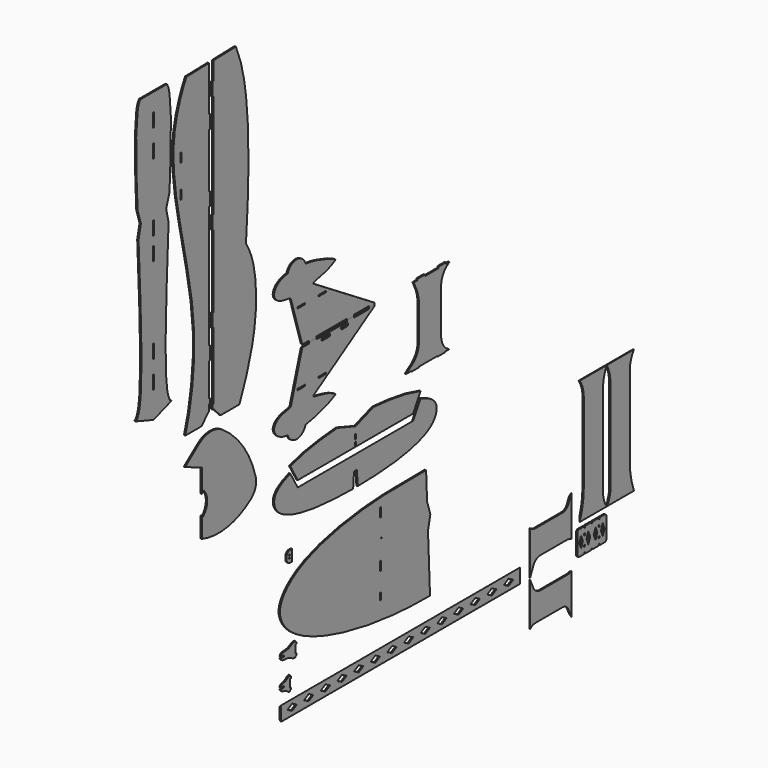
from build123d import *

# Parameters (mm, degrees)
F0_W      = 3
F0_H      = 15
F0_H_2    = 20
F0_R      = 1
F1_DEPTH  = 3
F0_W_2    = 20
F0_H_3    = 3
F0_W_3    = 660
F0_H_4    = 32
F0_H_5    = 4
F0_R_2    = 1.5
F4_DEPTH  = 3.0010001
F7_R      = 2
F8_R      = 5
F11_DEPTH = 3.0010001
F14_DEPTH = 1370.5460520562
F17_DEPTH = 3.0010001
F20_DEPTH = 159.5
F23_DEPTH = 75
F28_DEPTH = 2
F31_DEPTH = 2
F34_DEPTH = 660


with BuildPart() as f1:
    # F0 (on Right) → F1 (new body)
    with BuildSketch(Plane.YZ):
        with BuildLine():
            Line((445.9788260149, -85.3884914776), (443.2548856503, -23))
            add(Edge.make_bspline(
                [(443.2548856503, -23), (387.6442757386, -23.1080248271), (277.4693973876, -21.577900026), (113.2925464778, -53.4159812978), (48.9382679894, -100.0666005831), (33.4355530446, -139.8630615338), (64.1850761776, -192.401883947), (190.107286282, -248.8820027973), (348.3490708917, -272.3398208274), (454.1161131043, -271.7630071739)],
                knots=[0, 0, 0, 0, 0.1728091954, 0.3435828975, 0.4572655529, 0.5359553333, 0.6299355939, 0.7797664277, 1, 1, 1, 1], degree=3))
            Line((454.1161131043, -271.7630071739), (448.5068115819, -143.2888802136))
            Line((448.5068115819, -143.2888802136), (455, -114))
            Line((455, -114), (445.9788260149, -85.3884914776))
        make_face()
        with Locations((317.5, -217.5)):
            Rectangle(F0_W, F0_H, mode=Mode.SUBTRACT)
        with Locations((317.5, -158)):
            Rectangle(F0_W, F0_H_2, mode=Mode.SUBTRACT)
        with Locations((320, -104.5)):
            Circle(F0_R, mode=Mode.SUBTRACT)
        with Locations((317.5, -54)):
            Rectangle(F0_W, F0_H_2, mode=Mode.SUBTRACT)
    extrude(amount=F1_DEPTH)


with BuildPart() as f1b:
    # F0 (on Right) → F1, piece 2 (new body)
    with BuildSketch(Plane.YZ):
        with BuildLine():
            add(Edge.make_bspline(
                [(-356.5451143497, 868.4), (-358.3322230935, 919.2899078593), (-358.3894427132, 960.5220665782), (-353.6212927068, 1004.6125197381), (-349.4813869749, 1014.2803602541), (-347.1118856844, 1019.0654496894), (-346.1484470427, 1019.3939888095), (-345.3, 1019.4)],
                knots=[0, 0, 0, 0, 0.4421689869, 0.709813539, 0.8489281379, 0.9420742738, 1, 1, 1, 1], degree=3))
            Line((-356.5451143497, 868.4), (-353.8211739851, 806.0115085224))
            Line((-353.8211739851, 806.0115085224), (-344.8, 777.4))
            Line((-344.8, 777.4), (-351.2931884181, 748.1111197864))
            Line((-351.2931884181, 748.1111197864), (-345.6838868957, 619.6369928261))
            add(Edge.make_bspline(
                [(-345.6838868957, 619.6369928261), (-343.4550093203, 555.8012843453), (-342.6428432821, 543.1426851677), (-343.2666166718, 433.3879178692), (-352.3876367856, 404.7503224717), (-355.9228914137, 399.2288437019), (-359.9124845068, 398.1551121862)],
                knots=[0, 0, 0, 0, 0.3519730084, 0.698776995, 0.8921059042, 1, 1, 1, 1], degree=3))
            Line((-359.9124845068, 398.1551121862), (-309.8, 380.9))
            Line((-309.8, 380.9), (-309.8, 439.4))
            Line((-309.8, 439.4), (-311.3, 439.4))
            Line((-311.3, 439.4), (-311.3, 469.4))
            Line((-311.3, 469.4), (-309.8, 469.4))
            Line((-309.8, 469.4), (-309.8, 499.4))
            Line((-309.8, 499.4), (-311.3, 499.4))
            Line((-311.3, 499.4), (-311.3, 529.4))
            Line((-311.3, 529.4), (-309.8, 529.4))
            Line((-309.8, 529.4), (-309.8, 689.4))
            Line((-309.8, 689.4), (-311.3, 689.4))
            Line((-311.3, 689.4), (-311.3, 719.4))
            Line((-311.3, 719.4), (-309.8, 719.4))
            Line((-309.8, 719.4), (-309.8, 739.4))
            Line((-309.8, 739.4), (-311.3, 739.4))
            Line((-311.3, 739.4), (-311.3, 769.4))
            Line((-311.3, 769.4), (-309.8, 769.4))
            Line((-309.8, 769.4), (-309.8, 889.4))
            Line((-309.8, 889.4), (-311.3, 889.4))
            Line((-311.3, 889.4), (-311.3, 919.4))
            Line((-311.3, 919.4), (-309.8, 919.4))
            Line((-309.8, 919.4), (-309.8, 949.4))
            Line((-309.8, 949.4), (-311.3, 949.4))
            Line((-311.3, 949.4), (-311.3, 979.4))
            Line((-311.3, 979.4), (-309.8, 979.4))
            Line((-309.8, 979.4), (-309.8, 1019.4))
            Line((-309.8, 1019.4), (-345.3, 1019.4))
        make_face()
    extrude(amount=F1_DEPTH)

    # F2: F1b across face


with BuildPart() as f1c:
    # F0 (on Right) → F1, piece 3 (new body)
    with BuildSketch(Plane.YZ):
        with BuildLine():
            Line((-82.2212458515, 1014.8229707951), (-144.2, 1013.2))
            Line((-144.2, 1013.2), (-144.2, 973.2))
            Line((-144.2, 973.2), (-147.2, 973.2))
            Line((-147.2, 973.2), (-147.2, 943.2))
            Line((-147.2, 943.2), (-144.2, 943.2))
            Line((-144.2, 943.2), (-144.2, 713.2))
            Line((-144.2, 713.2), (-147.2, 713.2))
            Line((-147.2, 713.2), (-147.2, 683.2))
            Line((-147.2, 683.2), (-144.2, 683.2))
            Line((-144.2, 683.2), (-144.2, 523.2))
            Line((-144.2, 523.2), (-147.2, 523.2))
            Line((-147.2, 523.2), (-147.2, 493.2))
            Line((-147.2, 493.2), (-144.2, 493.2))
            Line((-144.2, 493.2), (-144.2, 344.7))
            Line((-144.2, 344.7), (-147.2, 344.7))
            Line((-147.2, 344.7), (-147.2, 334.7))
            Line((-147.2, 334.7), (-144.2, 334.7))
            Line((-144.2, 334.7), (-124.7, 314.5616088517))
            Line((-124.7, 314.5616088517), (-72.7, 314.5616088517))
            Line((-72.7, 314.5616088517), (-53.7, 360.8109331711))
            add(Edge.make_bspline(
                [(-53.7, 360.8109331711), (-44.1450139801, 388.0731044484), (-25.1860569982, 449.2472969373), (-25.237998452, 553.6107627008), (-42.0713453959, 600.7662242706), (-54.4445477426, 620.6976175308)],
                knots=[0, 0, 0, 0, 0.3410413597, 0.7004978787, 1, 1, 1, 1], degree=3))
            add(Edge.make_bspline(
                [(-82.2212458515, 1014.8229707951), (-64.4631835333, 974.6308125207), (-48.660793984, 893.5526960801), (-45.6770553833, 740.7123285013), (-51.9021777258, 659.1599836687), (-54.4445477426, 620.6976175308)],
                knots=[0, 0, 0, 0, 0.3259350876, 0.6821111021, 1, 1, 1, 1], degree=3))
        make_face()
    extrude(amount=F1_DEPTH)


with BuildPart() as f1d:
    # F0 (on Right) → F1, piece 4 (new body)
    with BuildSketch(Plane.YZ):
        with BuildLine():
            Line((-157, 913.2), (-157, 1013.2))
            Line((-157, 1013.2), (-218.9787541485, 1011.5770292049))
            add(Edge.make_bspline(
                [(-222, 314.5616088517), (-212.7990886678, 341.174439101), (-194.8834603, 427.9239013015), (-196.2201572288, 569.9322828511), (-254.2518797183, 790.8862771884), (-258.9200187381, 923.9896100781), (-229.7925636865, 991.9063123711), (-218.9787541485, 1011.5770292049)],
                knots=[0, 0, 0, 0, 0.1772584518, 0.3848015244, 0.6421413449, 0.8407738506, 1, 1, 1, 1], degree=3))
            Line((-222, 314.5616088517), (-177, 314.5616088517))
            Line((-177, 314.5616088517), (-157, 334.7))
            Line((-157, 334.7), (-157, 349.7))
            Line((-157, 349.7), (-154, 349.7))
            Line((-154, 349.7), (-154, 359.7))
            Line((-154, 359.7), (-157, 359.7))
            Line((-157, 359.7), (-157, 433.2))
            Line((-157, 433.2), (-154, 433.2))
            Line((-154, 433.2), (-154, 463.2))
            Line((-154, 463.2), (-157, 463.2))
            Line((-157, 463.2), (-157, 733.2))
            Line((-157, 733.2), (-154, 733.2))
            Line((-154, 733.2), (-154, 763.2))
            Line((-154, 763.2), (-157, 763.2))
            Line((-157, 763.2), (-157, 883.2))
            Line((-157, 883.2), (-154, 883.2))
            Line((-154, 883.2), (-154, 913.2))
            Line((-154, 913.2), (-157, 913.2))
        make_face()
        with Locations((-233.5, 788.2)):
            Rectangle(F0_W, F0_H_2, mode=Mode.SUBTRACT)
        with Locations((-233.5, 860.2)):
            Rectangle(F0_W, F0_H_2, mode=Mode.SUBTRACT)
    extrude(amount=F1_DEPTH)

    # F3 (on face) → F4 (cut, through all)
    with BuildSketch(Plane.YZ.offset(3)):
        Polygon((-226.0524108291, 1014.6790919863), (-226.0524108291, 1011.3132412212), (-150.7790153634, 1013.2843444511), (-150.8670928725, 1016.6478888255), align=None)
    extrude(amount=-F4_DEPTH, mode=Mode.SUBTRACT)

    # F16 (on face) → F17 (cut, through all)
    with BuildSketch(Plane.YZ.offset(3)):
        Polygon((-157.9711382378, 334.7), (-177, 314.5616088517), (-153.1669944525, 314.5616088517), (-153.1669944525, 334.7), align=None)
    extrude(amount=-F17_DEPTH, mode=Mode.SUBTRACT)


with BuildPart() as f1e:
    # F0 (on Right) → F1, piece 5 (new body)
    with BuildSketch(Plane.YZ):
        with BuildLine():
            Line((-222.67606282, 253.3824356794), (-176.4267385006, 234.3824356794))
            Line((-176.4267385006, 234.3824356794), (-176.4267385006, 182.3824356794))
            Line((-176.4267385006, 182.3824356794), (-171.4232586784, 187.227759384))
            ThreePointArc((-171.4232586784, 187.227759384), (-161.5905845707, 161.6516812936), (-173.1965647716, 136.8299473861))
            Line((-173.1965647716, 136.8299473861), (-176.4267385006, 139.8824356794))
            Line((-176.4267385006, 139.8824356794), (-176.4267385006, 94.8824356794))
            ThreePointArc((-176.4267385006, 94.8824356794), (-105.6349142578, 89.4404692259), (-40.5004746168, 117.7000189599))
            ThreePointArc((-40.5004746168, 117.7000189599), (-28.2877445989, 134.7096530774), (-27.6326998738, 155.6392814475))
            ThreePointArc((-27.6326998738, 155.6392814475), (-61.9554094264, 228.230403116), (-119.3421416647, 284.3934007134))
            ThreePointArc((-119.3421416647, 284.3934007134), (-152.5210626813, 294.0663537673), (-185.0598766363, 282.4202210613))
            Line((-185.0598766363, 282.4202210613), (-222.67606282, 253.3824356794))
        make_face()
    extrude(amount=F1_DEPTH)


with BuildPart() as f1f:
    # F0 (on Right) → F1, piece 6 (new body)
    with BuildSketch(Plane.YZ):
        with BuildLine():
            Line((248.0312138796, 126.5560394526), (248.0312138796, 141.5560394526))
            Line((248.0312138796, 141.5560394526), (197.9187293728, 158.8111516388))
            add(Edge.make_bspline(
                [(68.0312138796, 137.0630810077), (86.6261199117, 143.1902199984), (126.7526581067, 152.3183074324), (175.9409457445, 157.2777479887), (197.9187293728, 158.8111516388)],
                knots=[0, 0, 0, 0, 0.4807074227, 1, 1, 1, 1], degree=3))
            Line((68.0312138796, 137.0630810077), (88.5312138796, 101.5560394526))
            Line((88.5312138796, 101.5560394526), (246.5312138796, 101.5560394526))
            Line((246.5312138796, 101.5560394526), (246.5312138796, 111.5560394526))
            Line((246.5312138796, 111.5560394526), (248.0312138796, 111.5560394526))
            Line((248.0312138796, 111.5560394526), (248.0312138796, 116.5560394526))
            Line((248.0312138796, 116.5560394526), (246.5312138796, 116.5560394526))
            Line((246.5312138796, 116.5560394526), (246.5312138796, 126.5560394526))
            Line((246.5312138796, 126.5560394526), (248.0312138796, 126.5560394526))
        make_face()
    extrude(amount=F1_DEPTH)

    # F5: F1f across face


with BuildPart() as f1g:
    # F0 (on Right) → F1, piece 7 (new body)
    with BuildSketch(Plane.YZ):
        with BuildLine():
            Line((88.5312138796, 87.4820426106), (68.0312138796, 122.9890841658))
            add(Edge.make_bspline(
                [(68.0312138796, 122.9890841658), (59.1383851381, 119.8624460868), (34.2950668303, 110.209069927), (18.8487217541, 87.3776434463), (35.2297718673, 48.7736347797), (130.5489760505, 24.9929139218), (202.8764337301, 23.2967268676), (241.729250246, 22.5624289521)],
                knots=[0, 0, 0, 0, 0.1606237737, 0.2938112663, 0.4477927874, 0.7079644278, 1, 1, 1, 1], degree=3))
            Line((241.729250246, 22.5624289521), (244.0312138796, 55.4820426106))
            Line((244.0312138796, 55.4820426106), (248.0312138796, 55.4820426106))
            Line((248.0312138796, 55.4820426106), (248.0312138796, 87.4820426106))
            Line((248.0312138796, 87.4820426106), (88.5312138796, 87.4820426106))
        make_face()
    extrude(amount=F1_DEPTH)

    # F6: F1g across face


with BuildPart() as f1h:
    # F0 (on Right) → F1, piece 8 (new body)
    with BuildSketch(Plane.YZ):
        with BuildLine():
            Line((120.0954007506, 354.5373380184), (101.0954007506, 354.5373380184))
            Line((101.0954007506, 354.5373380184), (69.0839141607, 251.0236501694))
            add(Edge.make_bspline(
                [(69.0839141607, 251.0236501694), (49.4466813466, 248.8114996824), (30.4827710541, 243.4471244845), (20.236324384, 226.3233893007), (30.7565474968, 207.5339880365), (49.5142191648, 201.4144510031), (60.8686432242, 200.1193612814)],
                knots=[0, 0, 0, 0, 0.3174698231, 0.5108740541, 0.7220492671, 1, 1, 1, 1], degree=3))
            ThreePointArc((60.8686432242, 200.1193612814), (85.8881128365, 182.6331265314), (110.2852001786, 200.9777277708))
            add(Edge.make_bspline(
                [(193.6334073544, 226.6621291637), (182.9632349383, 219.8923240329), (151.1107126264, 208.9807865045), (124.708791692, 202.7478862673), (110.2852001786, 200.9777277708)],
                knots=[0, 0, 0, 0, 0.5051270907, 1, 1, 1, 1], degree=3))
            add(Edge.make_bspline(
                [(128.7214457989, 246.7946857214), (140.6915485859, 244.9325323105), (165.3236032877, 239.50276876), (182.6591193676, 233.355268836), (193.6334073544, 226.6621291637)],
                knots=[0, 0, 0, 0, 0.5154846135, 1, 1, 1, 1], degree=3))
            Line((128.7214457989, 246.7946857214), (301.0954007506, 354.5373380184))
            Line((301.0954007506, 354.5373380184), (301.0954007506, 357.5373380184))
            Line((301.0954007506, 357.5373380184), (286.0954007506, 357.5373380184))
            Line((286.0954007506, 357.5373380184), (286.0954007506, 354.5373380184))
            Line((286.0954007506, 354.5373380184), (244.0954007506, 354.5373380184))
            Line((244.0954007506, 354.5373380184), (244.0954007506, 357.5373380184))
            Line((244.0954007506, 357.5373380184), (224.0954007506, 357.5373380184))
            Line((224.0954007506, 357.5373380184), (224.0954007506, 354.5373380184))
            Line((224.0954007506, 354.5373380184), (140.0954007506, 354.5373380184))
            Line((140.0954007506, 354.5373380184), (140.0954007506, 357.5373380184))
            Line((140.0954007506, 357.5373380184), (120.0954007506, 357.5373380184))
            Line((120.0954007506, 357.5373380184), (120.0954007506, 354.5373380184))
        make_face()
        with Locations((98.0954007506, 278.0373380184)):
            Rectangle(F0_W_2, F0_H_3, mode=Mode.SUBTRACT)
        with Locations((156.0954007506, 278.0373380184)):
            Rectangle(F0_W_2, F0_H_3, mode=Mode.SUBTRACT)
    extrude(amount=F1_DEPTH)

    # F7
    f7_edges = [f1h.edges().sort_by_distance(p)[0] for p in [
        (1.5, 128.721446, 246.794686),
    ]]
    fillet(f7_edges, radius=F7_R)

    # F8
    f8_edges = [f1h.edges().sort_by_distance(p)[0] for p in [
        (1.5, 69.083914, 251.02365),
    ]]
    fillet(f8_edges, radius=F8_R)


with BuildPart() as f1i:
    # F0 (on Right) → F1, piece 9 (new body)
    with BuildSketch(Plane.YZ):
        with BuildLine():
            Line((420.0098142624, 355.8673858643), (409.0098142624, 355.8673858643))
            Line((409.0098142624, 355.8673858643), (415.7200157642, 341.9451117516))
            ThreePointArc((415.7200157642, 341.9451117516), (421.4952219515, 325.4534458137), (423.4530627728, 308.0898369944))
            Line((423.4530627728, 308.0898369944), (423.4530627728, 233.9415340298))
            ThreePointArc((423.4530627728, 233.9415340298), (418.345859876, 213.3118718291), (404.2040051941, 197.4476217649))
            Line((404.2040051941, 197.4476217649), (388.0098142624, 186.3673858643))
            Line((388.0098142624, 186.3673858643), (403.0098142624, 186.3673858643))
            Line((403.0098142624, 186.3673858643), (403.0098142624, 184.8673858643))
            Line((403.0098142624, 184.8673858643), (423.0098142624, 184.8673858643))
            Line((423.0098142624, 184.8673858643), (423.0098142624, 186.3673858643))
            Line((423.0098142624, 186.3673858643), (475.0098142624, 186.3673858643))
            Line((475.0098142624, 186.3673858643), (475.0098142624, 184.8673858643))
            Line((475.0098142624, 184.8673858643), (495.0098142624, 184.8673858643))
            Line((495.0098142624, 184.8673858643), (495.0098142624, 186.3673858643))
            Line((495.0098142624, 186.3673858643), (507.0098142624, 186.3673858643))
            ThreePointArc((507.0098142624, 186.3673858643), (490.8261989217, 200.7940835576), (484.8157336712, 221.6246697065))
            Line((484.8157336712, 221.6246697065), (484.8157336712, 318.5798823833))
            ThreePointArc((484.8157336712, 318.5798823833), (491.0873587715, 340.5362213901), (508.0098142624, 355.8673858643))
            Line((508.0098142624, 355.8673858643), (498.0098142624, 355.8673858643))
            Line((498.0098142624, 355.8673858643), (498.0098142624, 358.8673858643))
            Line((498.0098142624, 358.8673858643), (478.0098142624, 358.8673858643))
            Line((478.0098142624, 358.8673858643), (478.0098142624, 355.8673858643))
            Line((478.0098142624, 355.8673858643), (440.0098142624, 355.8673858643))
            Line((440.0098142624, 355.8673858643), (440.0098142624, 358.8673858643))
            Line((440.0098142624, 358.8673858643), (420.0098142624, 358.8673858643))
            Line((420.0098142624, 358.8673858643), (420.0098142624, 355.8673858643))
        make_face()
    extrude(amount=F1_DEPTH)


with BuildPart() as f1j:
    # F0 (on Right) → F1, piece 10 (new body)
    with BuildSketch(Plane.YZ):
        with BuildLine():
            Line((729.8609614372, -252.1450519562), (729.8609614372, -351.1450519562))
            Line((729.8609614372, -351.1450519562), (739.3485307693, -330.0403945446))
            ThreePointArc((739.3485307693, -330.0403945446), (747.5817646975, -320.45304662), (759.7019592383, -316.8747417927))
            Line((759.7019592383, -316.8747417927), (832.361025078, -316.8747417927))
            ThreePointArc((832.361025078, -316.8747417927), (838.8213528087, -317.705850509), (844.8609614372, -320.1450519562))
            Line((844.8609614372, -320.1450519562), (844.8609614372, -230.1450519562))
            Line((844.8609614372, -230.1450519562), (835.9543372759, -249.3236362934))
            ThreePointArc((835.9543372759, -249.3236362934), (829.7159630535, -256.4539961718), (820.6213529558, -259.1086924076))
            Line((820.6213529558, -259.1086924076), (745.2268029881, -259.1086924076))
            ThreePointArc((745.2268029881, -259.1086924076), (736.7917366738, -257.2865427598), (729.8609614372, -252.1450519562))
        make_face()
    extrude(amount=F1_DEPTH)

    # F13 (on plane+point) → F14 (cut, through all)
    with BuildSketch(Plane.XY.offset(-351.1450519562)):
        Polygon((-54.3233384217, 729.8609614372), (3, 729.8609614372), (-54.3233384217, 782.7574156869), align=None)
        Polygon((-54.3233384217, 844.8609614372), (-54.3233384217, 782.7574156869), (3, 844.8609614372), align=None)
    extrude(amount=F14_DEPTH, mode=Mode.SUBTRACT)


with BuildPart() as f1k:
    # F0 (on Right) → F1, piece 11 (new body)
    with BuildSketch(Plane.YZ):
        with BuildLine():
            Line((942.534160614, -21.6240715235), (867.534160614, -21.6240715235))
            ThreePointArc((867.534160614, -21.6240715235), (876.0369019852, -38.7387412155), (878.9625763893, -57.6238930225))
            Line((878.9625763893, -57.6238930225), (878.9625763893, -235.1671893842))
            ThreePointArc((878.9625763893, -235.1671893842), (876.0811904957, -266.4224171446), (867.534160614, -296.6240715235))
            Line((867.534160614, -296.6240715235), (942.534160614, -296.6240715235))
            ThreePointArc((942.534160614, -296.6240715235), (934.9656628029, -282.1870726624), (932.3533773422, -266.0971671343))
            Line((932.3533773422, -266.0971671343), (932.3533773422, -61.0627246815))
            ThreePointArc((932.3533773422, -61.0627246815), (934.9396179538, -40.6969708841), (942.534160614, -21.6240715235))
        make_face()
    extrude(amount=F1_DEPTH)

    # F22 (on plane+point) → F23 (cut, through all)
    with BuildSketch(Plane.XZ.offset(-867.534160614)):
        Polygon((-83.0457602305, -51.8749356466), (3, -21.6240715235), (-83.0457602305, -21.6240715235), align=None)
        Polygon((3, -296.6240715235), (-83.0457602305, -51.8749356466), (-83.0457602305, -296.6240715235), align=None)
    extrude(amount=-F23_DEPTH, mode=Mode.SUBTRACT)


with BuildPart() as f1l:
    # F0 (on Right) → F1, piece 12 (new body)
    with BuildSketch(Plane.YZ):
        with Locations((372.0573689044, -333.8822126389)):
            Rectangle(F0_W_3, F0_H_4)
        Polygon((73.0573689044, -340.8822126389), (60.0573689044, -333.8822126389), (73.0573689044, -326.8822126389), (86.0573689044, -333.8822126389), align=None, mode=Mode.SUBTRACT)
        Polygon((106.0573689044, -333.8822126389), (119.0573689044, -326.8822126389), (132.0573689044, -333.8822126389), (119.0573689044, -340.8822126389), align=None, mode=Mode.SUBTRACT)
        Polygon((152.0573689044, -333.8822126389), (165.0573689044, -326.8822126389), (178.0573689044, -333.8822126389), (165.0573689044, -340.8822126389), align=None, mode=Mode.SUBTRACT)
        Polygon((198.0573689044, -333.8822126389), (211.0573689044, -326.8822126389), (224.0573689044, -333.8822126389), (211.0573689044, -340.8822126389), align=None, mode=Mode.SUBTRACT)
        Polygon((244.0573689044, -333.8822126389), (257.0573689044, -326.8822126389), (270.0573689044, -333.8822126389), (257.0573689044, -340.8822126389), align=None, mode=Mode.SUBTRACT)
        Polygon((290.0573689044, -333.8822126389), (303.0573689044, -326.8822126389), (316.0573689044, -333.8822126389), (303.0573689044, -340.8822126389), align=None, mode=Mode.SUBTRACT)
        Polygon((336.0573689044, -333.8822126389), (349.0573689044, -326.8822126389), (362.0573689044, -333.8822126389), (349.0573689044, -340.8822126389), align=None, mode=Mode.SUBTRACT)
        Polygon((382.0573689044, -333.8822126389), (395.0573689044, -326.8822126389), (408.0573689044, -333.8822126389), (395.0573689044, -340.8822126389), align=None, mode=Mode.SUBTRACT)
        Polygon((428.0573689044, -333.8822126389), (441.0573689044, -326.8822126389), (454.0573689044, -333.8822126389), (441.0573689044, -340.8822126389), align=None, mode=Mode.SUBTRACT)
        Polygon((474.0573689044, -333.8822126389), (487.0573689044, -326.8822126389), (500.0573689044, -333.8822126389), (487.0573689044, -340.8822126389), align=None, mode=Mode.SUBTRACT)
        Polygon((520.0573689044, -333.8822126389), (533.0573689044, -326.8822126389), (546.0573689044, -333.8822126389), (533.0573689044, -340.8822126389), align=None, mode=Mode.SUBTRACT)
        Polygon((566.0573689044, -333.8822126389), (579.0573689044, -326.8822126389), (592.0573689044, -333.8822126389), (579.0573689044, -340.8822126389), align=None, mode=Mode.SUBTRACT)
        Polygon((612.0573689044, -333.8822126389), (625.0573689044, -326.8822126389), (638.0573689044, -333.8822126389), (625.0573689044, -340.8822126389), align=None, mode=Mode.SUBTRACT)
        Polygon((658.0573689044, -333.8822126389), (671.0573689044, -326.8822126389), (684.0573689044, -333.8822126389), (671.0573689044, -340.8822126389), align=None, mode=Mode.SUBTRACT)
    extrude(amount=F1_DEPTH)

    # F33 (on plane+point) → F34 (cut, through all)
    with BuildSketch(Plane.XZ.offset(-42.0573689044)):
        Polygon((3, -317.8822126389), (0, -317.8822126389), (0, -320.8822126389), align=None)
        Polygon((0, -346.8822126389), (0, -349.8822126389), (3, -349.8822126389), align=None)
    extrude(amount=-F34_DEPTH, mode=Mode.SUBTRACT)


with BuildPart() as f1m:
    # F0 (on Right) → F1, piece 13 (new body)
    with BuildSketch(Plane.YZ):
        with BuildLine():
            Line((879.8013710008, -309.966524601), (866.4582252502, -309.966524601))
            ThreePointArc((866.4582252502, -309.966524601), (862.9226913443, -311.430990695), (861.4582252502, -314.966524601))
            Line((861.4582252502, -314.966524601), (861.4582252502, -358.966524601))
            ThreePointArc((861.4582252502, -358.966524601), (862.9226913443, -362.5020585069), (866.4582252502, -363.966524601))
            Line((866.4582252502, -363.966524601), (879.8013710008, -363.966524601))
            Line((879.8013710008, -363.966524601), (881.4582252502, -359.966524601))
            Line((881.4582252502, -359.966524601), (883.1150794997, -363.966524601))
            Line((883.1150794997, -363.966524601), (899.8013710008, -363.966524601))
            Line((899.8013710008, -363.966524601), (901.4582252502, -359.966524601))
            Line((901.4582252502, -359.966524601), (903.1150794997, -363.966524601))
            Line((903.1150794997, -363.966524601), (919.8013710008, -363.966524601))
            Line((919.8013710008, -363.966524601), (921.4582252502, -359.966524601))
            Line((921.4582252502, -359.966524601), (923.1150794997, -363.966524601))
            Line((923.1150794997, -363.966524601), (936.4582252502, -363.966524601))
            ThreePointArc((936.4582252502, -363.966524601), (939.9937591562, -362.5020585069), (941.4582252502, -358.966524601))
            Line((941.4582252502, -358.966524601), (941.4582252502, -314.966524601))
            ThreePointArc((941.4582252502, -314.966524601), (939.9937591562, -311.430990695), (936.4582252502, -309.966524601))
            Line((936.4582252502, -309.966524601), (923.1150794997, -309.966524601))
            Line((923.1150794997, -309.966524601), (921.4582252502, -313.966524601))
            Line((921.4582252502, -313.966524601), (919.8013710008, -309.966524601))
            Line((919.8013710008, -309.966524601), (903.1150794997, -309.966524601))
            Line((903.1150794997, -309.966524601), (901.4582252502, -313.966524601))
            Line((901.4582252502, -313.966524601), (899.8013710008, -309.966524601))
            Line((899.8013710008, -309.966524601), (883.1150794997, -309.966524601))
            Line((883.1150794997, -309.966524601), (881.4582252502, -313.966524601))
            Line((881.4582252502, -313.966524601), (879.8013710008, -309.966524601))
        make_face()
        with Locations((881.4582252502, -347.966524601)):
            Rectangle(F0_W, F0_H_5, mode=Mode.SUBTRACT)
        Polygon((871.4582252502, -349.966524601), (866.4582252502, -336.966524601), (871.4582252502, -323.966524601), (876.4582252502, -336.966524601), align=None, mode=Mode.SUBTRACT)
        with Locations((881.4582252502, -325.966524601)):
            Rectangle(F0_W, F0_H_5, mode=Mode.SUBTRACT)
        Polygon((891.4582252502, -349.966524601), (886.4582252502, -336.966524601), (891.4582252502, -323.966524601), (896.4582252502, -336.966524601), align=None, mode=Mode.SUBTRACT)
        with Locations((921.4582252502, -347.966524601)):
            Rectangle(F0_W, F0_H_5, mode=Mode.SUBTRACT)
        Polygon((911.4582252502, -349.966524601), (906.4582252502, -336.966524601), (911.4582252502, -323.966524601), (916.4582252502, -336.966524601), align=None, mode=Mode.SUBTRACT)
        with Locations((921.4582252502, -325.966524601)):
            Rectangle(F0_W, F0_H_5, mode=Mode.SUBTRACT)
        Polygon((931.4582252502, -349.966524601), (926.4582252502, -336.966524601), (931.4582252502, -323.966524601), (936.4582252502, -336.966524601), align=None, mode=Mode.SUBTRACT)
    extrude(amount=F1_DEPTH)


with BuildPart() as f1n:
    # F0 (on Right) → F1, piece 14 (new body)
    with BuildSketch(Plane.YZ):
        with BuildLine():
            Line((67.0585870743, -294.0579619408), (67.0585870743, -285.0579619408))
            Line((67.0585870743, -285.0579619408), (67.0585870743, -276.0579619408))
            Line((67.0585870743, -276.0579619408), (70.0585870743, -276.0579619408))
            Line((70.0585870743, -276.0579619408), (70.0585870743, -272.0579619408))
            Line((70.0585870743, -272.0579619408), (67.0585870743, -272.0579619408))
            Line((67.0585870743, -272.0579619408), (67.0585870743, -269.0579619408))
            add(Edge.make_bspline(
                [(42.0585870743, -283.5579619408), (42.0800172873, -282.2193414096), (44.6233309341, -276.5731792289), (55.179113357, -276.9983020957), (62.4405652543, -269.8168404705), (65.9345569457, -269.0264955194), (67.0585870743, -269.0579619408)],
                knots=[0, 0, 0, 0, 0.2262290482, 0.5185565154, 0.810240147, 1, 1, 1, 1], degree=3))
            Line((42.0585870743, -283.5579619408), (50.0585870743, -283.5579619408))
            Line((50.0585870743, -283.5579619408), (50.0585870743, -285.0579619408))
            Line((50.0585870743, -285.0579619408), (50.0585870743, -286.5579619408))
            Line((50.0585870743, -286.5579619408), (42.0585870743, -286.5579619408))
            add(Edge.make_bspline(
                [(42.0585870743, -286.5579619408), (42.0800172873, -287.896582472), (44.6233309341, -293.5427446526), (55.179113357, -293.1176217858), (62.4405652543, -300.299083411), (65.9345569457, -301.0894283621), (67.0585870743, -301.0579619408)],
                knots=[0, 0, 0, 0, 0.2262290482, 0.5185565154, 0.810240147, 1, 1, 1, 1], degree=3))
            Line((67.0585870743, -301.0579619408), (67.0585870743, -298.0579619408))
            Line((67.0585870743, -298.0579619408), (70.0585870743, -298.0579619408))
            Line((70.0585870743, -298.0579619408), (70.0585870743, -294.0579619408))
            Line((70.0585870743, -294.0579619408), (67.0585870743, -294.0579619408))
        make_face()
    extrude(amount=F1_DEPTH)


with BuildPart() as f1o:
    # F0 (on Right) → F1, piece 15 (new body)
    with BuildSketch(Plane.YZ):
        with BuildLine():
            Line((42.0585870743, -223.3736619949), (50.0585870743, -223.3736619949))
            Line((50.0585870743, -223.3736619949), (50.0585870743, -224.8736619949))
            Line((50.0585870743, -224.8736619949), (50.0585870743, -226.3736619949))
            Line((50.0585870743, -226.3736619949), (42.0585870743, -226.3736619949))
            add(Edge.make_bspline(
                [(42.0585870743, -226.3736619949), (42.0765803802, -227.4975989648), (44.9683313594, -234.3367652288), (62.4053599119, -231.3486103771), (74.1607519497, -240.4457237394), (80.8746098163, -240.9068065934), (82.0585870743, -240.8736619949)],
                knots=[0, 0, 0, 0, 0.1899471769, 0.4998188839, 0.8001198147, 1, 1, 1, 1], degree=3))
            Line((82.0585870743, -240.8736619949), (82.0585870743, -237.8736619949))
            Line((82.0585870743, -237.8736619949), (85.0585870743, -237.8736619949))
            Line((85.0585870743, -237.8736619949), (85.0585870743, -233.8736619949))
            Line((85.0585870743, -233.8736619949), (82.0585870743, -233.8736619949))
            Line((82.0585870743, -233.8736619949), (82.0585870743, -224.8736619949))
            Line((82.0585870743, -224.8736619949), (82.0585870743, -215.8736619949))
            Line((82.0585870743, -215.8736619949), (85.0585870743, -215.8736619949))
            Line((85.0585870743, -215.8736619949), (85.0585870743, -211.8736619949))
            Line((85.0585870743, -211.8736619949), (82.0585870743, -211.8736619949))
            Line((82.0585870743, -211.8736619949), (82.0585870743, -208.8736619949))
            add(Edge.make_bspline(
                [(42.0585870743, -223.3736619949), (42.0765803802, -222.2497250251), (44.9683313594, -215.410558761), (62.4053599119, -218.3987136127), (74.1607519497, -209.3016002505), (80.8746098163, -208.8405173965), (82.0585870743, -208.8736619949)],
                knots=[0, 0, 0, 0, 0.1899471769, 0.4998188839, 0.8001198147, 1, 1, 1, 1], degree=3))
        make_face()
    extrude(amount=F1_DEPTH)


with BuildPart() as f1p:
    # F0 (on Right) → F1, piece 16 (new body)
    with BuildSketch(Plane.YZ):
        with BuildLine():
            Line((72.9137584567, -25.4641458392), (67.9137584567, -25.4641458392))
            ThreePointArc((67.9137584567, -25.4641458392), (60.8426906448, -28.3930780273), (57.9137584567, -35.4641458392))
            Line((57.9137584567, -35.4641458392), (57.9137584567, -40.4641458392))
            ThreePointArc((57.9137584567, -40.4641458392), (60.8426906448, -47.5352136511), (67.9137584567, -50.4641458392))
            Line((67.9137584567, -50.4641458392), (72.9137584567, -50.4641458392))
            Line((72.9137584567, -50.4641458392), (72.9137584567, -25.4641458392))
        make_face()
        with Locations((65.4137584567, -40.9641458392)):
            Circle(F0_R_2, mode=Mode.SUBTRACT)
        with Locations((65.4137584567, -34.9641458392)):
            Circle(F0_R_2, mode=Mode.SUBTRACT)
    extrude(amount=F1_DEPTH)


with BuildPart() as f1b_1:
    add(f1b.part)
    add(f1b.part.mirror(Plane(origin=(1.5, -309.8, 609.4), x_dir=(-1, 0, 0), z_dir=(0, 1, 0))))


with BuildPart() as f1f_1:
    add(f1f.part)
    add(f1f.part.mirror(Plane(origin=(1.5, 248.0312138796, 134.0560394526), x_dir=(-1, 0, 0), z_dir=(0, 1, 0))))


with BuildPart() as f1g_1:
    add(f1g.part)
    add(f1g.part.mirror(Plane(origin=(1.5, 248.0312138796, 71.4820426106), x_dir=(-1, 0, 0), z_dir=(0, 1, 0))))

    # F19 (on plane+point) → F20 (cut, symmetric)
    with BuildSketch(Plane.XZ.offset(-248.0312138796)):
        Polygon((3, 87.4820426106), (0, 87.4820426106), (0, 84.030937389), align=None)
    extrude(amount=F20_DEPTH, both=True, mode=Mode.SUBTRACT)

    # F27 (on 3pt) → F28 (cut)
    with BuildSketch(Plane(origin=(-48.8991803949, 80.7809697177, 42.5074090074), x_dir=(0.8814880591, 0.417882925, 0.2198923889), z_dir=(0.4722063126, -0.780080229, -0.4104826851))):
        Polygon((44.4752722979, 81.9538757205), (55.4734461685, 33.1375362287), (58.8767821173, 36.191620653), (60.8636513352, 79.8263028264), align=None)
    extrude(amount=-F28_DEPTH, mode=Mode.SUBTRACT)

    # F30 (on 3pt) → F31 (cut)
    with BuildSketch(Plane(origin=(133.8297844099, 221.0855002973, -116.3364567123), x_dir=(-0.8814880591, 0.417882925, -0.2198923889), z_dir=(0.4722063126, 0.780080229, -0.4104826851))):
        Polygon((148.4192361526, 267.1930904947), (151.8225721014, 264.1390060704), (164.0980988741, 313.7954175472), (142.4743682146, 312.3770654202), align=None)
    extrude(amount=-F31_DEPTH, mode=Mode.SUBTRACT)


with BuildPart() as f9_1:
    # F9: instance of F1h
    add(f1h.part.mirror(Plane(origin=(1.5, 130.0954007506, 357.5373380184), x_dir=(1, 0, 0), z_dir=(0, 0, 1))))


with BuildPart() as f1h_1:
    add(f1h.part)

    # F10 (on face) → F11 (cut, through all)
    with BuildSketch(Plane.YZ.offset(3)):
        with BuildLine():
            Line((175.0954007506, 351.5373380184), (157.0954007506, 351.5373380184))
            ThreePointArc((157.0954007506, 351.5373380184), (154.0954007506, 348.5373380184), (157.0954007506, 345.5373380184))
            Line((157.0954007506, 345.5373380184), (175.0954007506, 345.5373380184))
            ThreePointArc((175.0954007506, 345.5373380184), (178.0954007506, 348.5373380184), (175.0954007506, 351.5373380184))
        make_face()
        with BuildLine():
            Line((225.0954007506, 351.5373380184), (211.0954007506, 351.5373380184))
            ThreePointArc((211.0954007506, 351.5373380184), (208.0954007506, 348.5373380184), (211.0954007506, 345.5373380184))
            Line((211.0954007506, 345.5373380184), (225.0954007506, 345.5373380184))
            ThreePointArc((225.0954007506, 345.5373380184), (228.0954007506, 348.5373380184), (225.0954007506, 351.5373380184))
        make_face()
    extrude(amount=-F11_DEPTH, mode=Mode.SUBTRACT)


with BuildPart() as f15_1:
    # F15: instance of F1j
    add(f1j.part.mirror(Plane.XY.offset(-351.1450519562)))


with BuildPart() as f25_1:
    # F25: instance of F1k
    add(f1k.part.mirror(Plane.XZ.offset(-942.534160614)))


solid = Compound([f1.part, f1c.part, f1d.part, f1e.part, f1i.part, f1j.part, f1k.part, f1l.part, f1m.part, f1n.part, f1o.part, f1p.part, f1b_1.part, f1f_1.part, f1g_1.part, f9_1.part, f1h_1.part, f15_1.part, f25_1.part])
